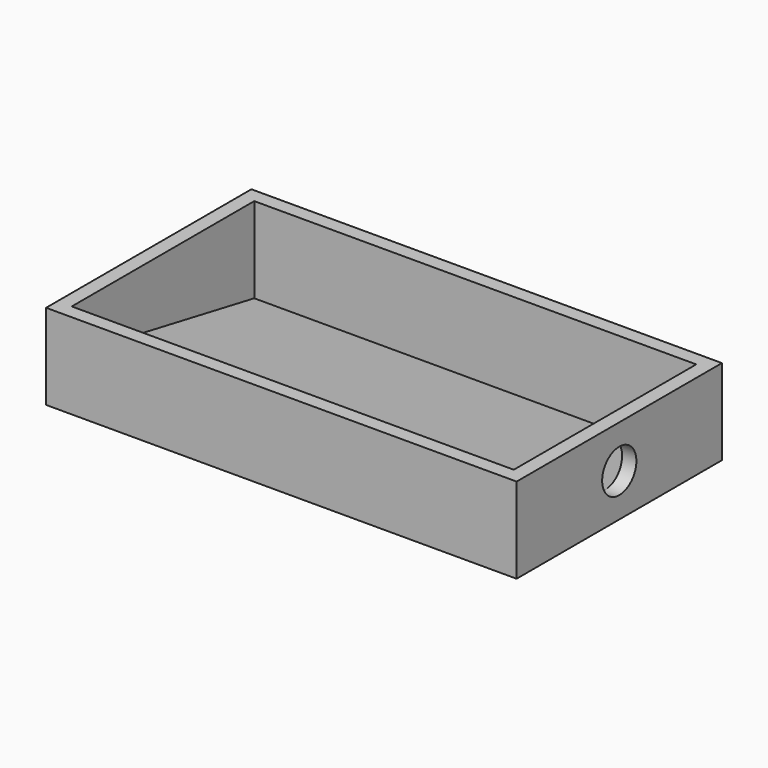
from build123d import *

# Parameters (mm, degrees)
F0_W     = 155
F0_H     = 80
F1_DEPTH = 15
F3_DEPTH = 155
F0_W_2   = 165
F0_H_2   = 90
F4_DEPTH = 30
F5_R     = 7.5
F6_DEPTH = 5


with BuildPart() as f1:
    # F0 (on Top) → F1 (new body)
    with BuildSketch(Plane.XY):
        with Locations((82.5, 45)):
            Rectangle(F0_W, F0_H)
    extrude(amount=F1_DEPTH)

    # F2 (on face) → F3 (cut)
    with BuildSketch(Plane.YZ.offset(160)):
        Polygon((85, 15), (5, 15), (85, 0), align=None)
    extrude(amount=-F3_DEPTH, mode=Mode.SUBTRACT)


with BuildPart() as f4:
    # F0 (on Top) → F4 (new body)
    with BuildSketch(Plane.XY):
        with Locations((82.5, 45)):
            Rectangle(F0_W_2, F0_H_2)
        with Locations((82.5, 45)):
            Rectangle(F0_W, F0_H, mode=Mode.SUBTRACT)
    extrude(amount=F4_DEPTH)

    # F5 (on face) → F6 (cut)
    with BuildSketch(Plane.YZ.offset(165)):
        with Locations((45, 15)):
            Circle(F5_R)
    extrude(amount=-F6_DEPTH, mode=Mode.SUBTRACT)


solid = Compound([f1.part, f4.part])
